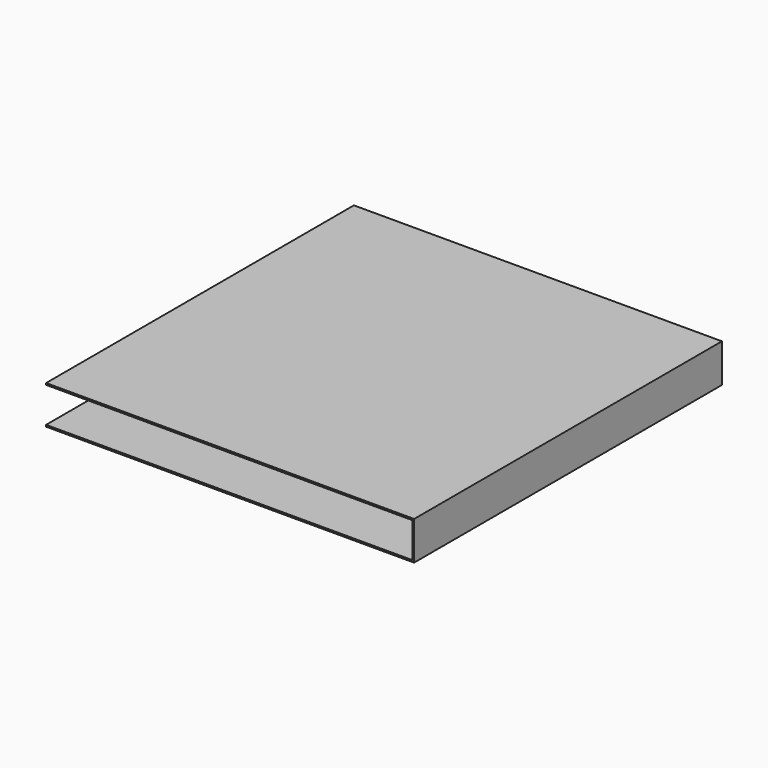
from build123d import *

# Parameters (mm, degrees)
BOX077_W               = 11.5
BOX077_H               = 10.95
BOX077_DEPTH           = 1.05
BOX076_W               = 11.5
BOX076_H               = 11
BOX076_DEPTH           = 1.15
CUT024_PLACEMENT_ANGLE = 270


with BuildPart() as small_cu_gnd_electrode022:
    # Box077 → Box077 (new body)
    with BuildSketch(Plane.XY.offset(0.05)):
        with Locations((5.75, 5.475)):
            Rectangle(BOX077_W, BOX077_H)
    extrude(amount=BOX077_DEPTH)


with BuildPart() as large_cu_electrode_short_axis_gnd002:
    # Box076 → Box076 (new body)
    with BuildSketch(Plane.XY):
        with Locations((5.75, 5.5)):
            Rectangle(BOX076_W, BOX076_H)
    extrude(amount=BOX076_DEPTH)

    # Cut024: cut Small Cu GND Electrode022
    add(small_cu_gnd_electrode022.part, mode=Mode.SUBTRACT)


with BuildPart() as large_cu_electrode_short_axis_gnd002_1:
    # Cut024 placement: moved
    add(large_cu_electrode_short_axis_gnd002.part.moved(Location((-4.76, 21.13, 20.55))).rotate(Axis((-4.76, 21.13, 20.55), (0, 0, 1)), CUT024_PLACEMENT_ANGLE))


solid = large_cu_electrode_short_axis_gnd002_1.part
